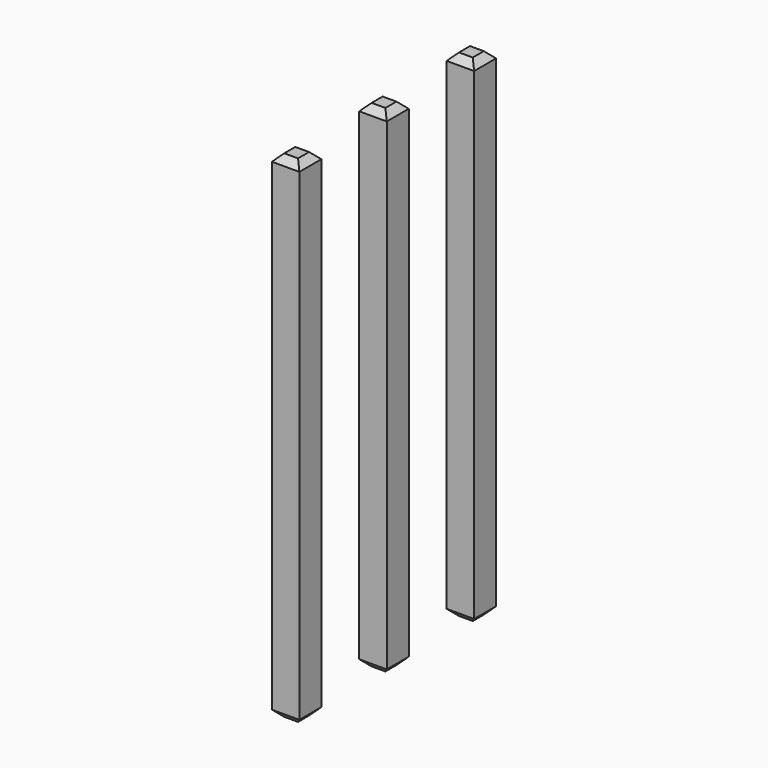
from build123d import *

# Parameters (mm, degrees)
SKETCH207_W       = 0.64
SKETCH207_H       = 11.54
PAD062_DEPTH      = 0.32
PAD062_DEPTH_BACK = 0.32
CHAMFER012_SIZE   = 0.16
ARRAY001_Y_COUNT  = 3
ARRAY001_Y_PITCH  = 2.54


with BuildPart() as part:
    # Sketch207 → Pad062 (new body, two sides)
    with BuildSketch(Plane.XZ) as pad062_sk:
        with Locations((0, 2.77)):
            Rectangle(SKETCH207_W, SKETCH207_H)
    extrude(amount=PAD062_DEPTH)
    extrude(pad062_sk.sketch, amount=-PAD062_DEPTH_BACK)

    # Chamfer012
    chamfer012_edges = [part.edges().sort_by_distance(p)[0] for p in [
        (0.32, 0, 8.54),
        (-0.32, 0, 8.54),
        (0, 0.32, 8.54),
        (0, -0.32, 8.54),
        (-0.32, 0, -3),
        (0.32, 0, -3),
        (0, 0.32, -3),
        (0, -0.32, -3),
    ]]
    chamfer(chamfer012_edges, length=CHAMFER012_SIZE)

    # Array001 Y: part ×3


with BuildPart() as part_1:
    add(part.part)
    with Locations(*[(0, i * ARRAY001_Y_PITCH, 0) for i in range(1, ARRAY001_Y_COUNT)]):
        add(part.part)


solid = part_1.part
